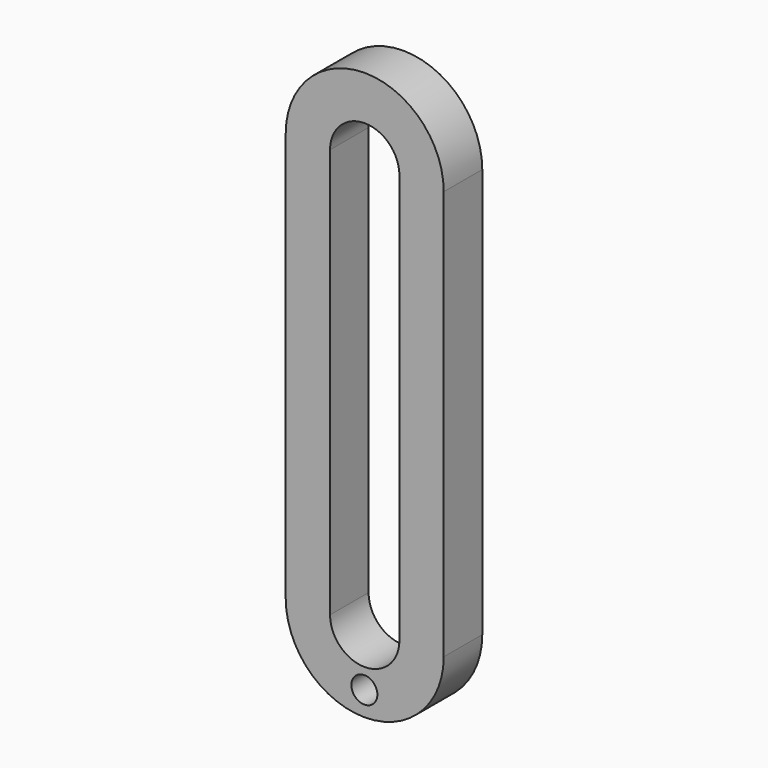
from build123d import *

# Parameters (mm, degrees)
F0_R     = 3.429
F1_DEPTH = 12.7


with BuildPart() as f1:
    # F0 (on Front) → F1 (new body)
    with BuildSketch(Plane.XZ):
        with BuildLine():
            ThreePointArc((20.682605, 52.700853), (-0.145395, 73.528853), (-20.973395, 52.700853))
            Line((-20.973395, 52.700853), (-20.973395, -55.249147))
            ThreePointArc((-20.973395, -55.249147), (-0.145395, -76.077147), (20.682605, -55.249147))
            Line((20.682605, -55.249147), (20.682605, 52.700853))
        make_face()
        with Locations((-0.242249, -69.715809)):
            Circle(F0_R, mode=Mode.SUBTRACT)
        with BuildLine():
            Line((-9.289395, -55.249147), (-9.289395, 52.700853))
            ThreePointArc((-9.289395, 52.700853), (-0.145395, 61.844853), (8.998605, 52.700853))
            Line((8.998605, 52.700853), (8.998605, -55.249147))
            ThreePointArc((8.998605, -55.249147), (-0.145395, -64.393147), (-9.289395, -55.249147))
        make_face(mode=Mode.SUBTRACT)
    extrude(amount=F1_DEPTH)


solid = f1.part
